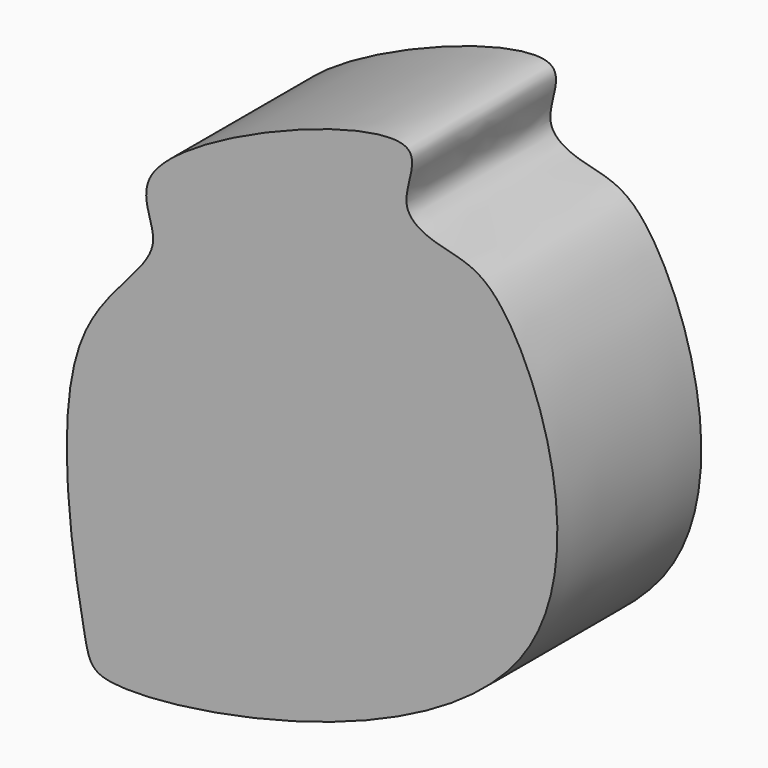
from build123d import *

# Parameters (mm, degrees)
F1_DEPTH = 29.972


with BuildPart() as f1:
    # F0 (on Front) → F1 (new body)
    with BuildSketch(Plane.XZ):
        with BuildLine():
            add(Edge.make_bspline(
                [(-53.6386780441, -42.9971627891), (-55.3468299388, -34.258954901), (-61.7947343724, 2.5965093573), (-37.429255183, 16.7963706038), (-51.4527063043, 31.0310221533), (8.2117607014, 54.4511571085), (-2.7872673941, 36.3255431003), (6.7971289586, 32.6488583696), (18.0596372996, 31.7090394448), (41.9373397885, -35.5786154073), (-51.4506551806, -52.6086357144), (-52.9427973347, -46.5570044653), (-53.6386780441, -42.9971627891)],
                knots=[0, 0, 0, 0, 0.1356076132, 0.2320918971, 0.2982111338, 0.4380968631, 0.4975987234, 0.5539153496, 0.620148773, 0.7672139981, 0.9447550757, 1, 1, 1, 1], degree=3))
        make_face()
    extrude(amount=-F1_DEPTH)


solid = f1.part
